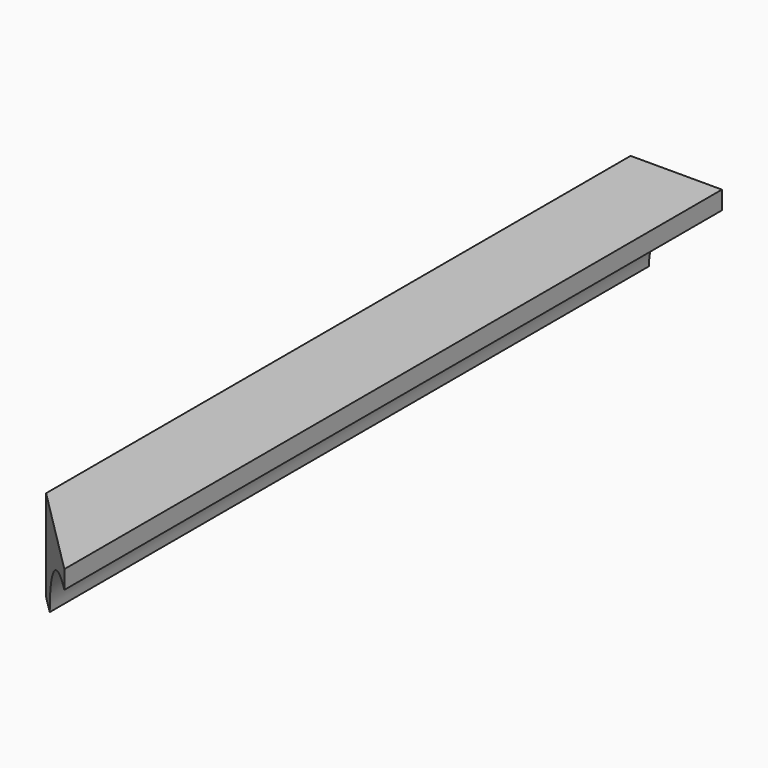
from build123d import *

# Parameters (mm, degrees)
F1_DEPTH = 285.75
F3_DEPTH = 50.8


with BuildPart() as f1:
    # F0 (on Front) → F1 (new body)
    with BuildSketch(Plane.XZ):
        with BuildLine():
            Line((-31.75, 0), (-25.4, 0))
            ThreePointArc((-25.4, 0), (-17.960512, 17.960512), (0, 25.4))
            Line((0, 25.4), (0, 31.75))
            Line((0, 31.75), (-31.75, 31.75))
            Line((-31.75, 31.75), (-31.75, 0))
        make_face()
    extrude(amount=F1_DEPTH)

    # F2 (on face) → F3 (cut)
    with BuildSketch(Plane.XY.offset(31.75)):
        Polygon((-31.75, -285.75), (0, -285.75), (-31.75, -254), align=None)
    extrude(amount=-F3_DEPTH, mode=Mode.SUBTRACT)


solid = f1.part
